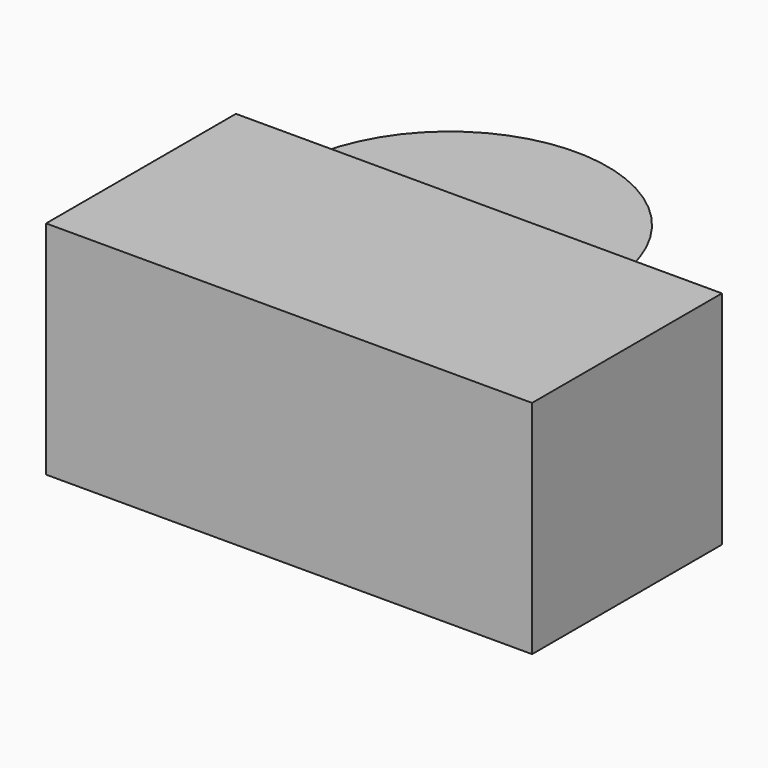
from build123d import *

# Parameters (mm, degrees)
F2_W     = 780.327082
F2_H     = 355.154276
F3_DEPTH = 381


with BuildPart() as f1:
    # F0 (on Front) → F1 (revolve)
    with BuildSketch(Plane.XZ):
        Polygon((173.410069, 172.037573), (-80.589931, 172.037573), (-80.589931, -81.962427), align=None)
    revolve(axis=Axis((-80.589931, 0, 45.037573), (0, 0, -1)))

    # F2 (on Front) → F3 (join)
    with BuildSketch(Plane.XZ):
        with Locations((-33.309847, 40.15027)):
            Rectangle(F2_W, F2_H)
    extrude(amount=F3_DEPTH)


solid = f1.part
